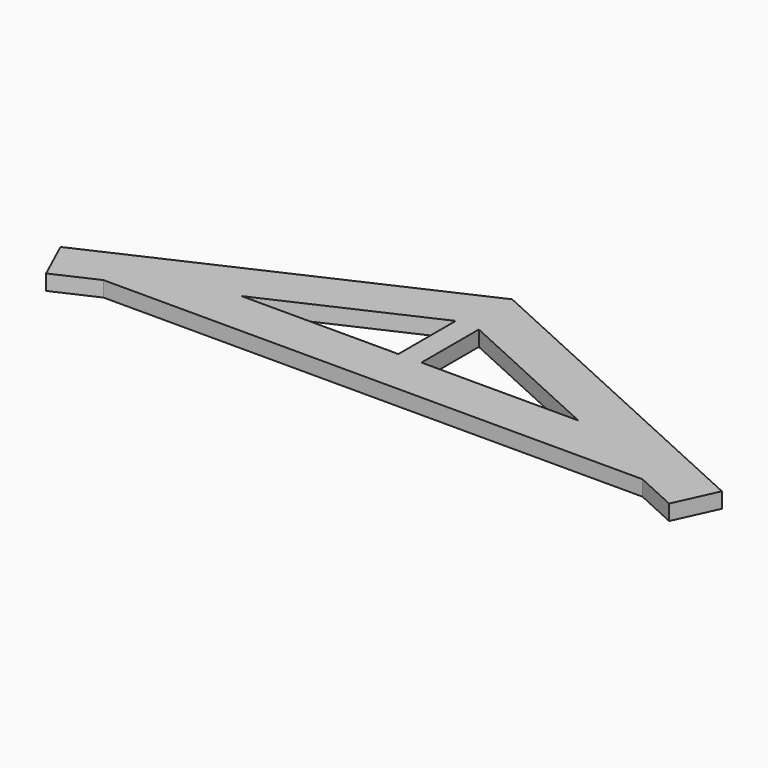
from build123d import *

# Parameters (mm, degrees)
F1_DEPTH = 2


with BuildPart() as f1:
    # F0 (on Top) → F1 (new body)
    with BuildSketch(Plane.XY):
        Polygon((-35, 0), (0, 0), (35, 0), (40.456847, -2.494559), (42.951405, 2.962288), (37.494559, 5.456847), (0, 22.597216), (-37.494559, 5.456847), (-42.951405, 2.962288), (-40.456847, -2.494559), align=None)
        Polygon((-21.875, 6), (-1.5, 15.314286), (-1.5, 6), align=None, mode=Mode.SUBTRACT)
        Polygon((1.5, 6), (1.5, 15.314286), (21.875, 6), align=None, mode=Mode.SUBTRACT)
    extrude(amount=F1_DEPTH)


solid = f1.part
